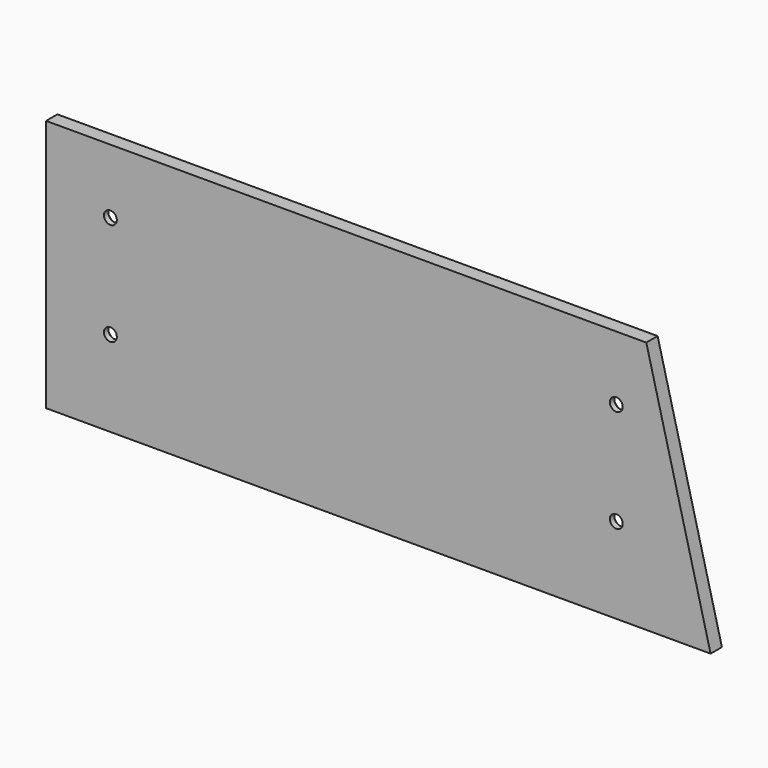
from build123d import *

# Parameters (mm, degrees)
F0_W     = 140
F0_H     = 59
F1_DEPTH = 3.3
F2_R     = 1.5
F3_DEPTH = 25
F4_SIZE  = 2


with BuildPart() as f1:
    # F0 (on Front) → F1 (new body)
    with BuildSketch(Plane.XZ):
        Rectangle(F0_W, F0_H)
        Polygon((85, -29.5), (70, 29.5), (70, -29.5), align=None)
    extrude(amount=F1_DEPTH)

    # F2 (on face) → F3 (cut)
    with BuildSketch(Plane.XZ.offset(3.3)):
        with Locations((-55, 14.5)):
            Circle(F2_R)
        with Locations((63, 14.5)):
            Circle(F2_R)
        with Locations((63, -9.5)):
            Circle(F2_R)
        with Locations((-55, -9.5)):
            Circle(F2_R)
    extrude(amount=-F3_DEPTH, mode=Mode.SUBTRACT)

    # F4
    f4_edges = [f1.edges().sort_by_distance(p)[0] for p in [
        (-56.5, 0, -9.5),
        (-56.5, 0, 14.5),
        (61.5, 0, -9.5),
        (61.5, 0, 14.5),
    ]]
    chamfer(f4_edges, length=F4_SIZE)


solid = f1.part
